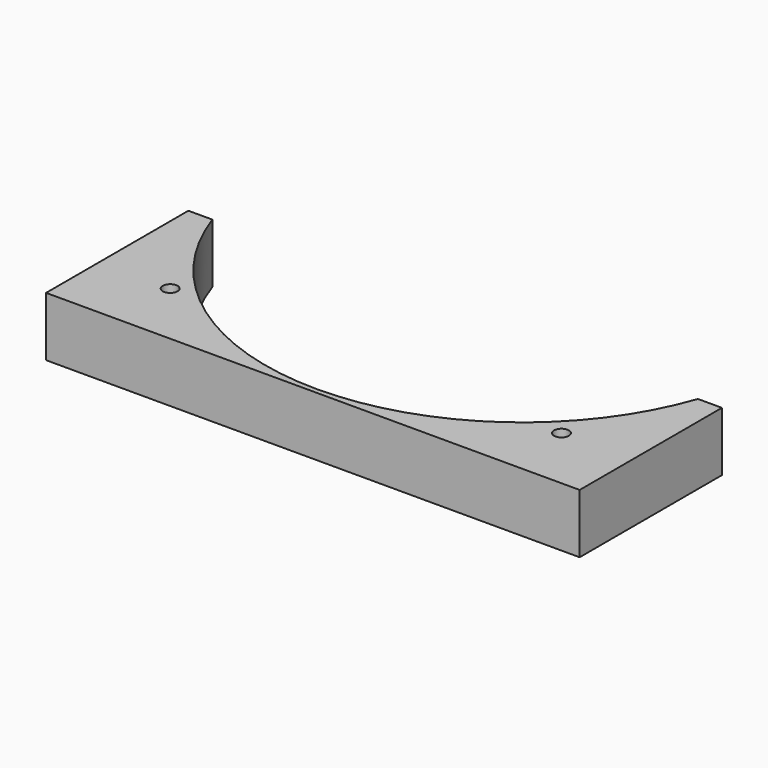
from build123d import *

# Parameters (mm, degrees)
CYLINDER1371_R               = 1.5
CYLINDER1371_DEPTH           = 50
CYLINDER1371_PLACEMENT_ANGLE = 45
CYLINDER1366_R               = 1.5
CYLINDER1366_DEPTH           = 50
CYLINDER1366_PLACEMENT_ANGLE = 135
CYLINDER1370_R               = 1.5
CYLINDER1370_DEPTH           = 50
CYLINDER1364_R               = 1.5
CYLINDER1364_DEPTH           = 50
CYLINDER1364_PLACEMENT_ANGLE = 225
CYLINDER1365_R               = 1.5
CYLINDER1365_DEPTH           = 50
CYLINDER1367_R               = 1.5
CYLINDER1367_DEPTH           = 50
CYLINDER1367_PLACEMENT_ANGLE = 45
CYLINDER1369_R               = 1.5
CYLINDER1369_DEPTH           = 50
CYLINDER1368_R               = 52
CYLINDER1368_DEPTH           = 16
BOX497_W                     = 108
BOX497_H                     = 36
BOX497_DEPTH                 = 12


with BuildPart() as obj1:
    # Cylinder1371 → Cylinder1371 (new body)
    with BuildSketch(Plane.XY):
        Circle(CYLINDER1371_R)
    extrude(amount=CYLINDER1371_DEPTH)


with BuildPart() as obj1_1:
    # Cylinder1371 placement: moved
    add(obj1.part.moved(Location((39.59798, -39.59798, 2))).rotate(Axis((39.59798, -39.59798, 2), (0, 0, 1)), CYLINDER1371_PLACEMENT_ANGLE))


with BuildPart() as obj2:
    # Cylinder1366 → Cylinder1366 (new body)
    with BuildSketch(Plane.XY):
        Circle(CYLINDER1366_R)
    extrude(amount=CYLINDER1366_DEPTH)


with BuildPart() as obj2_1:
    # Cylinder1366 placement: moved
    add(obj2.part.moved(Location((39.59798, 39.59798, 2))).rotate(Axis((39.59798, 39.59798, 2), (0, 0, 1)), CYLINDER1366_PLACEMENT_ANGLE))


with BuildPart() as obj3:
    # Cylinder1370 → Cylinder1370 (new body)
    with BuildSketch(Plane(origin=(0, 56, 2), x_dir=(-1, 0, 0), z_dir=(0, 0, 1))):
        Circle(CYLINDER1370_R)
    extrude(amount=CYLINDER1370_DEPTH)


with BuildPart() as obj4:
    # Cylinder1364 → Cylinder1364 (new body)
    with BuildSketch(Plane.XY):
        Circle(CYLINDER1364_R)
    extrude(amount=CYLINDER1364_DEPTH)


with BuildPart() as obj4_1:
    # Cylinder1364 placement: moved
    add(obj4.part.moved(Location((-39.59798, 39.59798, 2))).rotate(Axis((-39.59798, 39.59798, 2), (0, 0, 1)), CYLINDER1364_PLACEMENT_ANGLE))


with BuildPart() as obj5:
    # Cylinder1365 → Cylinder1365 (new body)
    with BuildSketch(Plane(origin=(-56, 0, 2), x_dir=(0, -1, 0), z_dir=(0, 0, 1))):
        Circle(CYLINDER1365_R)
    extrude(amount=CYLINDER1365_DEPTH)


with BuildPart() as obj6:
    # Cylinder1367 → Cylinder1367 (new body)
    with BuildSketch(Plane.XY):
        Circle(CYLINDER1367_R)
    extrude(amount=CYLINDER1367_DEPTH)


with BuildPart() as obj6_1:
    # Cylinder1367 placement: moved
    add(obj6.part.moved(Location((-39.59798, -39.59798, 2))).rotate(Axis((-39.59798, -39.59798, 2), (0, 0, -1)), CYLINDER1367_PLACEMENT_ANGLE))


with BuildPart() as compound871:
    # Cylinder1369 → Cylinder1369 (new body)
    with BuildSketch(Plane(origin=(0, -56, 2), x_dir=(1, 0, 0), z_dir=(0, 0, 1))):
        Circle(CYLINDER1369_R)
    extrude(amount=CYLINDER1369_DEPTH)

    # Compound871: union obj1, obj2, obj3, obj4, obj5, obj6
    add(obj1_1.part)
    add(obj2_1.part)
    add(obj3.part)
    add(obj4_1.part)
    add(obj5.part)
    add(obj6_1.part)


with BuildPart() as obj7:
    # Cylinder1368 → Cylinder1368 (new body)
    with BuildSketch(Plane.XY.offset(20)):
        Circle(CYLINDER1368_R)
    extrude(amount=CYLINDER1368_DEPTH)


with BuildPart() as cut489:
    # Box497 → Box497 (new body)
    with BuildSketch(Plane(origin=(-54, -53, 20), x_dir=(1, 0, 0), z_dir=(0, 0, 1))):
        with Locations((54, 18)):
            Rectangle(BOX497_W, BOX497_H)
    extrude(amount=BOX497_DEPTH)

    # Cut490: cut obj7
    add(obj7.part, mode=Mode.SUBTRACT)


with BuildPart() as cut489_1:
    # Cut490 placement: moved
    add(cut489.part.moved(Location((0, 0, -10))))

    # Cut489: cut Compound871
    add(compound871.part, mode=Mode.SUBTRACT)


with BuildPart() as cut489_2:
    # Cut489 placement: moved
    add(cut489_1.part.moved(Location((0, 0, -4))))


solid = cut489_2.part
